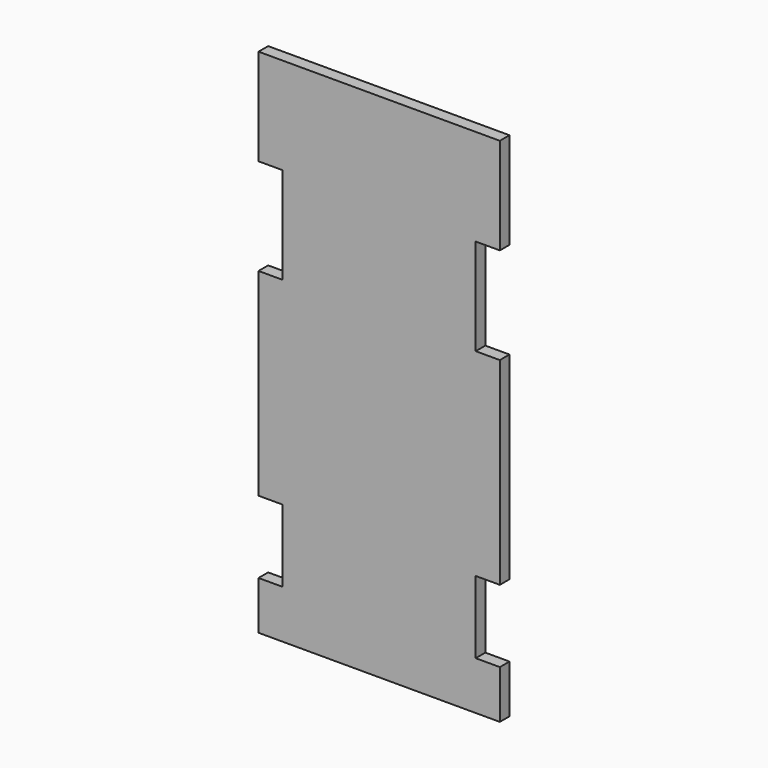
from build123d import *

# Parameters (mm, degrees)
F1_DEPTH = 25


with BuildPart() as f1:
    # F0 (on Front) → F1 (new body)
    with BuildSketch(Plane.XZ):
        Polygon((450, 810), (-50, 810), (-50, 610), (0, 610), (0, 410), (-50, 410), (-50, 200), (-50, 0), (0, 0), (0, -150), (-50, -150), (-50, -250), (450, -250), (450, -150), (400, -150), (400, 0), (450, 0), (450, 200), (450, 410), (400, 410), (400, 610), (450, 610), align=None)
    extrude(amount=F1_DEPTH)


solid = f1.part
